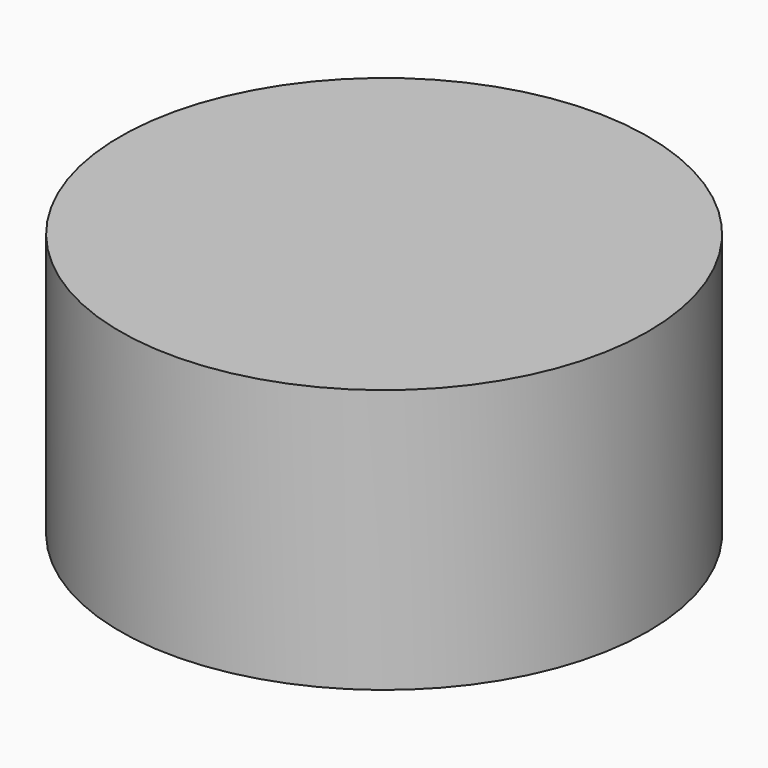
from build123d import *

# Parameters (mm, degrees)
CYLINDER_R     = 0.5
CYLINDER_DEPTH = 0.5


with BuildPart() as part:
    # Cylinder → Cylinder (new body)
    with BuildSketch(Plane.XY):
        Circle(CYLINDER_R)
    extrude(amount=CYLINDER_DEPTH)


solid = part.part
